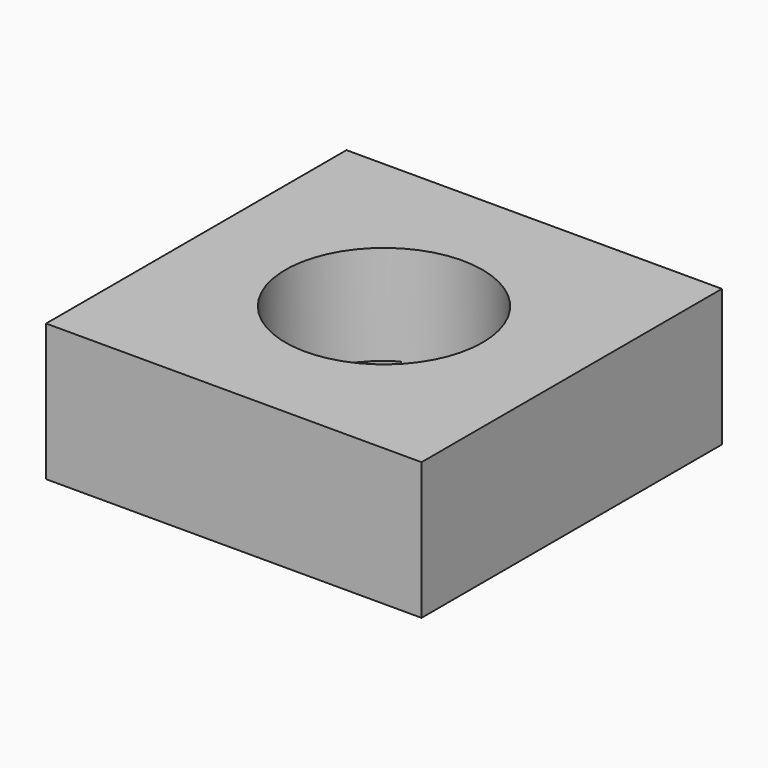
from build123d import *

# Parameters (mm, degrees)
F0_W     = 20
F0_H     = 20
F0_W_2   = 9
F0_H_2   = 9
F1_DEPTH = 2
F2_W     = 20
F2_H     = 20
F3_DEPTH = 5.3
F4_R     = 5.25
F5_DEPTH = 10


with BuildPart() as f1:
    # F0 (on Top) → F1 (new body)
    with BuildSketch(Plane.XY):
        Rectangle(F0_W, F0_H)
        Rectangle(F0_W_2, F0_H_2, mode=Mode.SUBTRACT)
    extrude(amount=F1_DEPTH)

    # F2 (on face) → F3 (join)
    with BuildSketch(Plane.XY.offset(2)):
        Rectangle(F2_W, F2_H)
    extrude(amount=F3_DEPTH)

    # F4 (on face) → F5 (cut)
    with BuildSketch(Plane.XY.offset(7.3)):
        Circle(F4_R)
    extrude(amount=-F5_DEPTH, mode=Mode.SUBTRACT)


solid = f1.part
